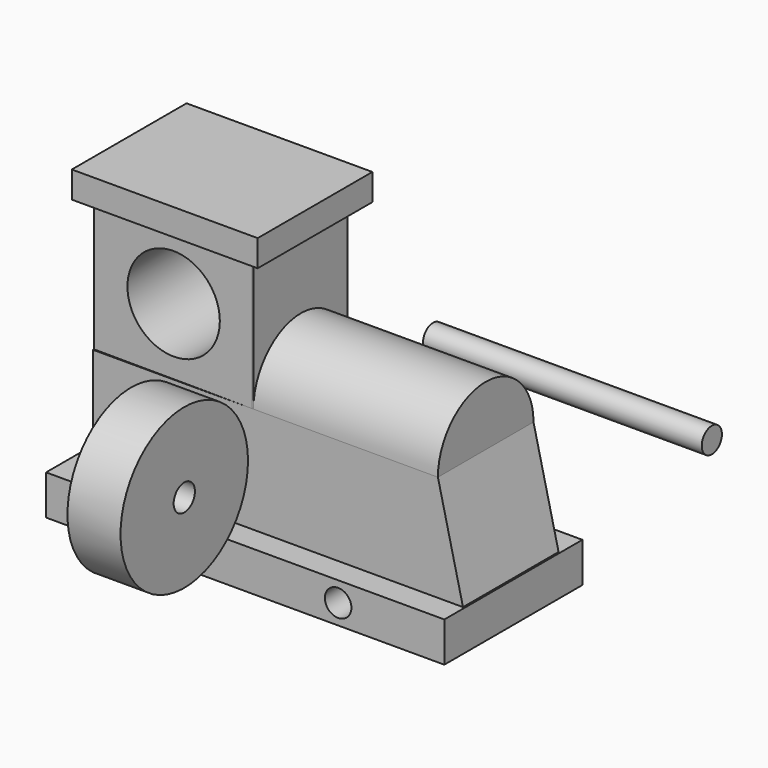
from build123d import *

# Parameters (mm, degrees)
F0_W      = 150
F0_H      = 65
F1_DEPTH  = 15
F4_DEPTH  = 40
F6_DEPTH  = 70
F8_DEPTH  = 45
F10_DEPTH = 50
F11_W     = 70
F11_H     = 54
F12_DEPTH = 10
F14_R     = 30
F15_DEPTH = 20
F16_R     = 5
F17_DEPTH = 25
F18_R     = 5
F19_DEPTH = 500
F13_R     = 5
F20_DEPTH = 500
F25_R     = 4.75
F26_DEPTH = 105
F27_R     = 17.5
F29_DEPTH = 200


with BuildPart() as f1:
    # F0 (on Top) → F1 (new body)
    with BuildSketch(Plane.XY):
        with Locations((-0.4054047167, -5.1538434943)):
            Rectangle(F0_W, F0_H)
    extrude(amount=F1_DEPTH)

    # F3 (on face) → F4 (join)
    with BuildSketch(Plane.XY.offset(15)):
        Polygon((64.5165467262, 16.9167039652), (-65.4834532738, 16.9167039652), (-65.4834532738, -27.6538434943), (-65.4054047167, -27.6538434943), (-65.4054047167, -28.0832960348), (64.5165467262, -28.0832960348), align=None)
    extrude(amount=F4_DEPTH)

    # F5 (on face) → F6 (join)
    with BuildSketch(Plane.YZ.offset(64.5165467262)):
        with BuildLine():
            Line((-28.0832960348, 55), (16.9167039652, 55))
            ThreePointArc((16.9167039652, 55), (-5.5832960348, 77.5), (-28.0832960348, 55))
        make_face()
    extrude(amount=-F6_DEPTH)

    # F7 (on face) → F8 (join)
    with BuildSketch(Plane(origin=(0, 16.9167039652, 0), x_dir=(-1, 0, 0), z_dir=(0, 1, 0))):
        Polygon((-64.5165467262, 15), (-64.5165467262, 55), (-74.0085318685, 14.8078193888), align=None)
    extrude(amount=-F8_DEPTH)

    # F9 (on face) → F10 (join)
    with BuildSketch(Plane.XY.offset(55)):
        Polygon((-5.4834532738, -28.0797098011), (-4.9788486212, -28.0832960348), (-5.4834532738, 16.9167039652), align=None)
        Polygon((-65.4054047167, -27.6538434943), (-5.4834532738, -28.0797098011), (-5.4834532738, 16.9167039652), (-65.4834532738, 16.9167039652), align=None)
    extrude(amount=F10_DEPTH)

    # F11 (on face) → F12 (join)
    with BuildSketch(Plane.XY.offset(105)):
        with Locations((-35, -5.2901028037)):
            Rectangle(F11_W, F11_H)
    extrude(amount=F12_DEPTH)

    # F18 (on face) → F19 (cut)
    with BuildSketch(Plane.XZ.offset(37.6538434943)):
        with Locations((-35.4054047167, 7.5)):
            Circle(F18_R)
    extrude(amount=-F19_DEPTH, mode=Mode.SUBTRACT)

    # F13 (on face) → F20 (cut)
    with BuildSketch(Plane(origin=(0, 27.3461565057, 0), x_dir=(-1, 0, 0), z_dir=(0, 1, 0))):
        with Locations((-34.5945952833, 7.5)):
            Circle(F13_R)
    extrude(amount=-F20_DEPTH, mode=Mode.SUBTRACT)

    # F27 (on face) → F29 (cut)
    with BuildSketch(Plane(origin=(-0.1998298394, -28.1172606009, 0), x_dir=(0.9999747461, -0.0071068372, 0), z_dir=(-0.0071068372, -0.9999747461, 0))):
        with Locations((-34.9931805434, 80)):
            Circle(F27_R)
    extrude(amount=-F29_DEPTH, mode=Mode.SUBTRACT)


with BuildPart() as f15:
    # F14 (on Right) → F15 (new body)
    with BuildSketch(Plane.YZ):
        with Locations((-77.5851194713, 0)):
            Circle(F14_R)
    extrude(amount=F15_DEPTH)

    # F16 (on face) → F17 (cut)
    with BuildSketch(Plane(origin=(0, 0, 0), x_dir=(0, -1, 0), z_dir=(-1, 0, 0))):
        with Locations((77.5851194713, 0)):
            Circle(F16_R)
    extrude(amount=-F17_DEPTH, mode=Mode.SUBTRACT)


with BuildPart() as f15_1:
    # F21: moved
    add(f15.part.moved(Location((0, -14.26396, 59.73302))))


with BuildPart() as f22_1:
    # F22: copy of F15
    add(f15_1.part.moved(Location((33.48448, 7.79764, -22.59786))))


with BuildPart() as f23_1:
    # F23: copy of F15
    add(f15_1.part.moved(Location((0, -14.18279, 151.67118))))


with BuildPart() as f26:
    # F25 (on Right) → F26 (new body)
    with BuildSketch(Plane.YZ):
        with Locations((50.2724312246, 48.6439391971)):
            Circle(F25_R)
    extrude(amount=F26_DEPTH)


solid = Compound([f1.part, f15_1.part, f26.part])
